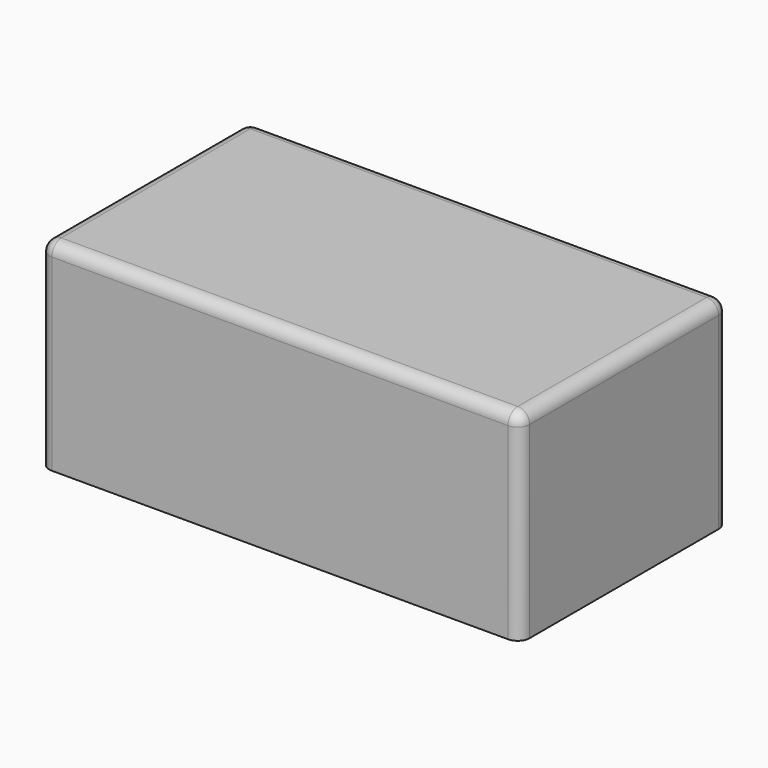
from build123d import *

# Parameters (mm, degrees)
F0_W     = 120
F0_H     = 65
F1_DEPTH = 50
F2_T     = -2.54
F3_R     = 3
F4_R     = 3


with BuildPart() as f1:
    # F0 (on Top) → F1 (new body)
    with BuildSketch(Plane.XY):
        Rectangle(F0_W, F0_H)
    extrude(amount=F1_DEPTH)

    # F2
    f2_openings = [f1.faces().sort_by_distance(p)[0] for p in [
        (0, 0, 0),
    ]]
    offset(amount=F2_T, openings=f2_openings)

    # F3
    f3_edges = [f1.edges().sort_by_distance(p)[0] for p in [
        (0, -32.5, 50),
        (60, 0, 50),
        (0, 32.5, 50),
        (-60, 0, 50),
        (-60, 32.5, 25),
        (60, 32.5, 25),
        (60, -32.5, 25),
        (-60, -32.5, 25),
    ]]
    fillet(f3_edges, radius=F3_R)

    # F4
    f4_edges = [f1.edges().sort_by_distance(p)[0] for p in [
        (0, 29.96, 47.46),
        (-57.46, 0, 47.46),
        (0, -29.96, 47.46),
        (57.46, 0, 47.46),
        (57.46, -29.96, 23.73),
        (57.46, 29.96, 23.73),
        (-57.46, 29.96, 23.73),
        (-57.46, -29.96, 23.73),
    ]]
    fillet(f4_edges, radius=F4_R)


solid = f1.part
